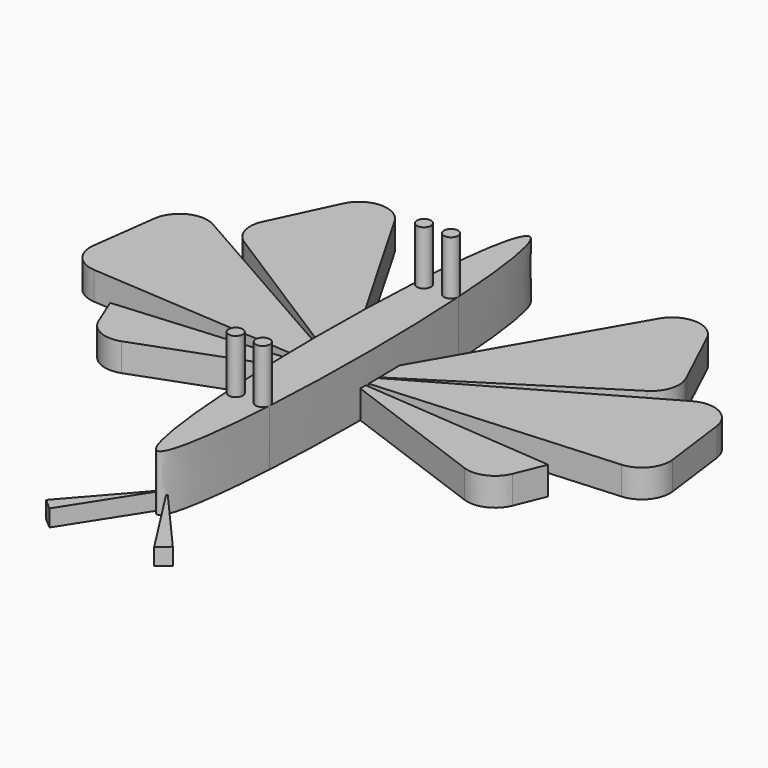
from build123d import *

# Parameters (mm, degrees)
F1_DEPTH = 12.7
F3_DEPTH = 6.35
F4_DEPTH = 6.35
F6_DEPTH = 3.81
F7_R     = 1.611052
F8_DEPTH = 24.892


with BuildPart() as f1:
    # F0 (on Top) → F1 (new body)
    with BuildSketch(Plane.XY):
        with BuildLine():
            add(Edge.make_bspline(
                [(0, 52.585188), (-9.400332, 52.585188), (-4.700166, -26.292594), (0, -105.170377), (4.700166, -26.292594), (9.400332, 52.585188), (0, 52.585188)],
                knots=[0, 0, 0, 2.094395, 2.094395, 4.18879, 4.18879, 6.283185, 6.283185, 6.283185], degree=2, weights=[1, 0.5, 1, 0.5, 1, 0.5, 1]))
        make_face()
    extrude(amount=F1_DEPTH)

    # F2 (on Top) → F3 (join)
    with BuildSketch(Plane.XY):
        with BuildLine():
            Line((29.910943, 51.873522), (0, 0))
            Line((0, 0), (45.594088, 28.952246))
            ThreePointArc((45.594088, 28.952246), (48.288608, 32.543311), (47.934656, 37.018901))
            Line((47.934656, 37.018901), (41.156483, 51.407661))
            ThreePointArc((41.156483, 51.407661), (35.674792, 55.046123), (29.910943, 51.873522))
        make_face()
        with BuildLine():
            Line((54.181473, 30.804791), (0, 0))
            Line((0, 0), (59.687491, 4.069601))
            ThreePointArc((59.687491, 4.069601), (64.166335, 6.379152), (65.552487, 11.22401))
            Line((65.552487, 11.22401), (63.61691, 26.103728))
            ThreePointArc((63.61691, 26.103728), (60.15174, 30.968232), (54.181473, 30.804791))
        make_face()
        with BuildLine():
            Line((49.565941, -4.02566), (0, 0))
            Line((0, 0), (38.781499, -14.241793))
            ThreePointArc((38.781499, -14.241793), (43.534604, -14.090302), (46.849617, -10.680661))
            Line((46.849617, -10.680661), (49.565941, -4.02566))
        make_face()
        with BuildLine():
            Line((-38.781499, -14.241793), (0, 0))
            Line((0, 0), (-49.565941, -4.02566))
            Line((-49.565941, -4.02566), (-46.849617, -10.680661))
            ThreePointArc((-46.849617, -10.680661), (-43.534604, -14.090302), (-38.781499, -14.241793))
        make_face()
        with BuildLine():
            Line((-59.687491, 4.069601), (0, 0))
            Line((0, 0), (-54.181473, 30.804791))
            ThreePointArc((-54.181473, 30.804791), (-60.15174, 30.968232), (-63.61691, 26.103728))
            Line((-63.61691, 26.103728), (-65.552487, 11.22401))
            ThreePointArc((-65.552487, 11.22401), (-64.166335, 6.379152), (-59.687491, 4.069601))
        make_face()
        with BuildLine():
            Line((-45.594088, 28.952246), (0, 0))
            Line((0, 0), (-29.910943, 51.873522))
            ThreePointArc((-29.910943, 51.873522), (-35.674792, 55.046123), (-41.156483, 51.407661))
            Line((-41.156483, 51.407661), (-47.934656, 37.018901))
            ThreePointArc((-47.934656, 37.018901), (-48.288608, 32.543311), (-45.594088, 28.952246))
        make_face()
    extrude(amount=F3_DEPTH)

    # F2 (on Top) → F4 (join)
    with BuildSketch(Plane.XY):
        with BuildLine():
            Line((29.910943, 51.873522), (0, 0))
            Line((0, 0), (45.594088, 28.952246))
            ThreePointArc((45.594088, 28.952246), (48.288608, 32.543311), (47.934656, 37.018901))
            Line((47.934656, 37.018901), (41.156483, 51.407661))
            ThreePointArc((41.156483, 51.407661), (35.674792, 55.046123), (29.910943, 51.873522))
        make_face()
        with BuildLine():
            Line((54.181473, 30.804791), (0, 0))
            Line((0, 0), (59.687491, 4.069601))
            ThreePointArc((59.687491, 4.069601), (64.166335, 6.379152), (65.552487, 11.22401))
            Line((65.552487, 11.22401), (63.61691, 26.103728))
            ThreePointArc((63.61691, 26.103728), (60.15174, 30.968232), (54.181473, 30.804791))
        make_face()
        with BuildLine():
            Line((49.565941, -4.02566), (0, 0))
            Line((0, 0), (38.781499, -14.241793))
            ThreePointArc((38.781499, -14.241793), (43.534604, -14.090302), (46.849617, -10.680661))
            Line((46.849617, -10.680661), (49.565941, -4.02566))
        make_face()
        with BuildLine():
            Line((-38.781499, -14.241793), (0, 0))
            Line((0, 0), (-49.565941, -4.02566))
            Line((-49.565941, -4.02566), (-46.849617, -10.680661))
            ThreePointArc((-46.849617, -10.680661), (-43.534604, -14.090302), (-38.781499, -14.241793))
        make_face()
        with BuildLine():
            Line((-59.687491, 4.069601), (0, 0))
            Line((0, 0), (-54.181473, 30.804791))
            ThreePointArc((-54.181473, 30.804791), (-60.15174, 30.968232), (-63.61691, 26.103728))
            Line((-63.61691, 26.103728), (-65.552487, 11.22401))
            ThreePointArc((-65.552487, 11.22401), (-64.166335, 6.379152), (-59.687491, 4.069601))
        make_face()
        with BuildLine():
            Line((-45.594088, 28.952246), (0, 0))
            Line((0, 0), (-29.910943, 51.873522))
            ThreePointArc((-29.910943, 51.873522), (-35.674792, 55.046123), (-41.156483, 51.407661))
            Line((-41.156483, 51.407661), (-47.934656, 37.018901))
            ThreePointArc((-47.934656, 37.018901), (-48.288608, 32.543311), (-45.594088, 28.952246))
        make_face()
    extrude(amount=F4_DEPTH)

    # F5 (on Top) → F6 (join)
    with BuildSketch(Plane.XY):
        Polygon((14.341416, -66.171795), (0, -49.817547), (11.851301, -68.355434), align=None)
        Polygon((-11.851301, -68.355434), (0, -49.817547), (-14.341416, -66.171795), align=None)
    extrude(amount=F6_DEPTH)

    # F7 (on Top) → F8 (join)
    with BuildSketch(Plane.XY):
        with Locations((3.066851, 26.622396)):
            Circle(F7_R)
        with Locations((-3.066851, 26.622396)):
            Circle(F7_R)
        with Locations((-3.066851, -26.622396)):
            Circle(F7_R)
        with Locations((3.066851, -26.622396)):
            Circle(F7_R)
    extrude(amount=F8_DEPTH)


solid = f1.part
